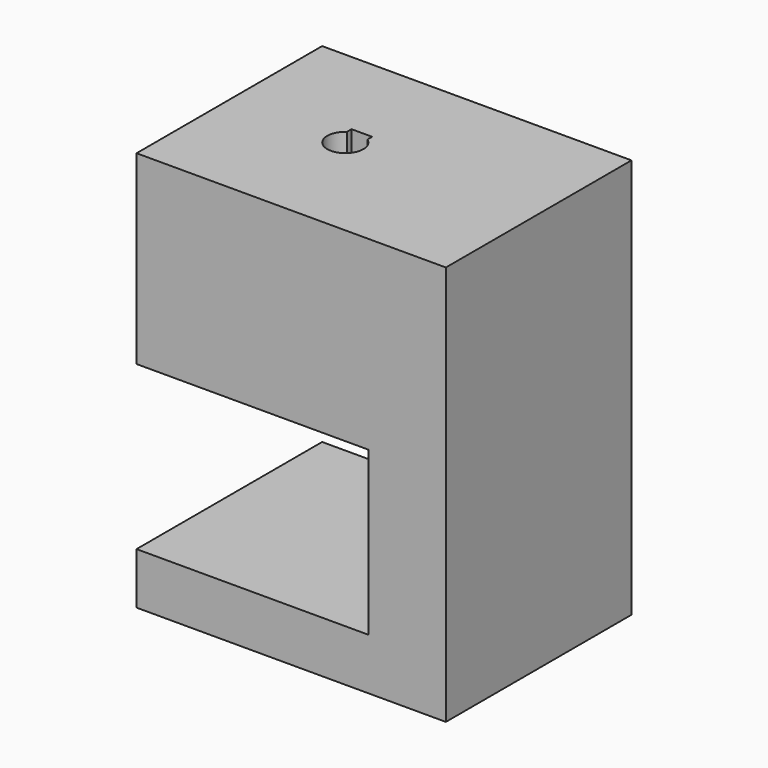
from build123d import *

# Parameters (mm, degrees)
F1_DEPTH = 22.5
F3_DEPTH = 4.5


with BuildPart() as f1:
    # F0 (on Front) → F1 (new body)
    with BuildSketch(Plane.XZ):
        Polygon((15, 15.3), (-15, 15.3), (-15, -2.7), (7.5, -2.7), (7.5, -18.5), (-15, -18.5), (-15, -23.5), (15, -23.5), align=None)
    extrude(amount=F1_DEPTH)

    # F2 (on face) → F3 (cut)
    with BuildSketch(Plane.XY.offset(15.3)):
        with BuildLine():
            Line((-4.75, -9.25), (-4.75, -9.813859))
            ThreePointArc((-4.75, -9.813859), (-3.75, -13), (-2.75, -9.813859))
            Line((-2.75, -9.813859), (-2.75, -9.25))
            Line((-2.75, -9.25), (-4.75, -9.25))
        make_face()
    extrude(amount=-F3_DEPTH, mode=Mode.SUBTRACT)


solid = f1.part
